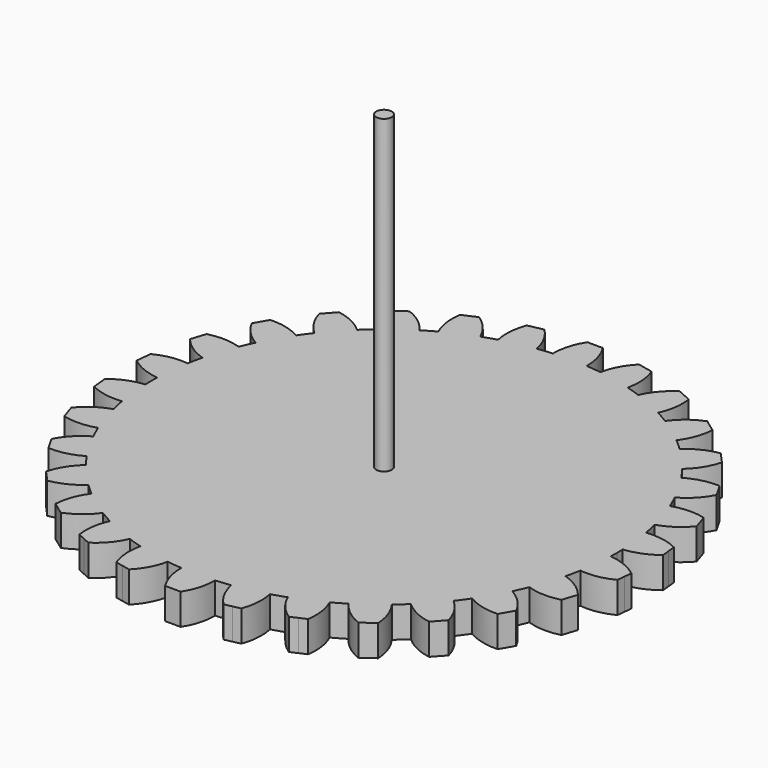
from build123d import *

# Parameters (mm, degrees)
F1_DEPTH      = 20
F2_R          = 5
F3_DEPTH      = 200
F3_DEPTH_BACK = 50


with BuildPart() as f1:
    # F0 (on Top) → F1 (new body)
    with BuildSketch(Plane.XY):
        with BuildLine():
            ThreePointArc((149.922926, -4.807941), (149.98073, -2.404279), (150, 0))
            ThreePointArc((150, 0), (149.98073, 2.404279), (149.922926, 4.807941))
            ThreePointArc((149.922926, 4.807941), (149.178284, 15.679269), (147.646377, 26.467853))
            ThreePointArc((147.646377, 26.467853), (146.72214, 31.186754), (145.647123, 35.873605))
            ThreePointArc((145.647123, 35.873605), (142.658477, 46.352549), (138.916974, 56.586875))
            ThreePointArc((138.916974, 56.586875), (137.031819, 61.010496), (135.005842, 65.37142))
            ThreePointArc((135.005842, 65.37142), (129.903811, 75), (124.116232, 84.232779))
            ThreePointArc((124.116232, 84.232779), (121.352549, 88.167788), (118.464158, 92.012191))
            ThreePointArc((118.464158, 92.012191), (111.471724, 100.369591), (103.891015, 108.197306))
            ThreePointArc((103.891015, 108.197306), (100.369591, 111.471724), (96.745022, 114.631587))
            ThreePointArc((96.745022, 114.631587), (88.167788, 121.352549), (79.125262, 127.433092))
            ThreePointArc((79.125262, 127.433092), (75, 129.903811), (70.797664, 132.241033))
            ThreePointArc((70.797664, 132.241033), (61.010496, 137.031819), (50.901356, 141.09944))
            ThreePointArc((50.901356, 141.09944), (46.352549, 142.658477), (41.756108, 144.070911))
            ThreePointArc((41.756108, 144.070911), (31.186754, 146.72214), (20.452816, 148.599066))
            ThreePointArc((20.452816, 148.599066), (15.679269, 149.178284), (10.88961, 149.604199))
            ThreePointArc((10.88961, 149.604199), (5.4484, 149.901017), (0, 150))
            ThreePointArc((0, 150), (-5.4484, 149.901017), (-10.88961, 149.604199))
            ThreePointArc((-10.88961, 149.604199), (-15.679269, 149.178284), (-20.452816, 148.599066))
            ThreePointArc((-20.452816, 148.599066), (-31.186754, 146.72214), (-41.756108, 144.070911))
            ThreePointArc((-41.756108, 144.070911), (-46.352549, 142.658477), (-50.901356, 141.09944))
            ThreePointArc((-50.901356, 141.09944), (-61.010496, 137.031819), (-70.797664, 132.241033))
            ThreePointArc((-70.797664, 132.241033), (-75, 129.903811), (-79.125262, 127.433092))
            ThreePointArc((-79.125262, 127.433092), (-88.167788, 121.352549), (-96.745022, 114.631587))
            ThreePointArc((-96.745022, 114.631587), (-100.369591, 111.471724), (-103.891015, 108.197306))
            ThreePointArc((-103.891015, 108.197306), (-111.471724, 100.369591), (-118.464158, 92.012191))
            ThreePointArc((-118.464158, 92.012191), (-121.352549, 88.167788), (-124.116232, 84.232779))
            ThreePointArc((-124.116232, 84.232779), (-129.903811, 75), (-135.005842, 65.37142))
            ThreePointArc((-135.005842, 65.37142), (-137.031819, 61.010496), (-138.916974, 56.586875))
            ThreePointArc((-138.916974, 56.586875), (-142.658477, 46.352549), (-145.647123, 35.873605))
            ThreePointArc((-145.647123, 35.873605), (-146.72214, 31.186754), (-147.646377, 26.467853))
            ThreePointArc((-147.646377, 26.467853), (-149.178284, 15.679269), (-149.922926, 4.807941))
            ThreePointArc((-149.922926, 4.807941), (-150, 0), (-149.922926, -4.807941))
            ThreePointArc((-149.922926, -4.807941), (-149.178284, -15.679269), (-147.646377, -26.467853))
            ThreePointArc((-147.646377, -26.467853), (-146.72214, -31.186754), (-145.647123, -35.873605))
            ThreePointArc((-145.647123, -35.873605), (-142.658477, -46.352549), (-138.916974, -56.586875))
            ThreePointArc((-138.916974, -56.586875), (-137.031819, -61.010496), (-135.005842, -65.37142))
            ThreePointArc((-135.005842, -65.37142), (-129.903811, -75), (-124.116232, -84.232779))
            ThreePointArc((-124.116232, -84.232779), (-121.352549, -88.167788), (-118.464158, -92.012191))
            ThreePointArc((-118.464158, -92.012191), (-111.471724, -100.369591), (-103.891015, -108.197306))
            ThreePointArc((-103.891015, -108.197306), (-100.369591, -111.471724), (-96.745022, -114.631587))
            ThreePointArc((-96.745022, -114.631587), (-88.167788, -121.352549), (-79.125262, -127.433092))
            ThreePointArc((-79.125262, -127.433092), (-75, -129.903811), (-70.797664, -132.241033))
            ThreePointArc((-70.797664, -132.241033), (-61.010496, -137.031819), (-50.901356, -141.09944))
            ThreePointArc((-50.901356, -141.09944), (-46.352549, -142.658477), (-41.756108, -144.070911))
            ThreePointArc((-41.756108, -144.070911), (-31.186754, -146.72214), (-20.452816, -148.599066))
            ThreePointArc((-20.452816, -148.599066), (-15.679269, -149.178284), (-10.88961, -149.604199))
            ThreePointArc((-10.88961, -149.604199), (0, -150), (10.88961, -149.604199))
            ThreePointArc((10.88961, -149.604199), (15.679269, -149.178284), (20.452816, -148.599066))
            ThreePointArc((20.452816, -148.599066), (31.186754, -146.72214), (41.756108, -144.070911))
            ThreePointArc((41.756108, -144.070911), (46.352549, -142.658477), (50.901356, -141.09944))
            ThreePointArc((50.901356, -141.09944), (61.010496, -137.031819), (70.797664, -132.241033))
            ThreePointArc((70.797664, -132.241033), (75, -129.903811), (79.125262, -127.433092))
            ThreePointArc((79.125262, -127.433092), (88.167788, -121.352549), (96.745022, -114.631587))
            ThreePointArc((96.745022, -114.631587), (100.369591, -111.471724), (103.891015, -108.197306))
            ThreePointArc((103.891015, -108.197306), (111.471724, -100.369591), (118.464158, -92.012191))
            ThreePointArc((118.464158, -92.012191), (121.352549, -88.167788), (124.116232, -84.232779))
            ThreePointArc((124.116232, -84.232779), (129.903811, -75), (135.005842, -65.37142))
            ThreePointArc((135.005842, -65.37142), (137.031819, -61.010496), (138.916974, -56.586875))
            ThreePointArc((138.916974, -56.586875), (142.658477, -46.352549), (145.647123, -35.873605))
            ThreePointArc((145.647123, -35.873605), (146.72214, -31.186754), (147.646377, -26.467853))
            ThreePointArc((147.646377, -26.467853), (149.178284, -15.679269), (149.922926, -4.807941))
        make_face()
        with BuildLine():
            ThreePointArc((147.646377, 26.467853), (149.178284, 15.679269), (149.922926, 4.807941))
            ThreePointArc((149.922926, 4.807941), (160.344232, 7.357266), (169.591365, 12.797229))
            Line((169.591365, 12.797229), (169.068722, 17.769839))
            Line((169.068722, 17.769839), (168.54608, 22.742448))
            ThreePointArc((168.54608, 22.742448), (158.369987, 26.140949), (147.646377, 26.467853))
        make_face()
        with BuildLine():
            ThreePointArc((169.591365, -12.797229), (160.344232, -7.357266), (149.922926, -4.807941))
            ThreePointArc((149.922926, -4.807941), (149.178284, -15.679269), (147.646377, -26.467853))
            ThreePointArc((147.646377, -26.467853), (158.369987, -26.140949), (168.54608, -22.742448))
            Line((168.54608, -22.742448), (169.068722, -17.769839))
            Line((169.068722, -17.769839), (169.591365, -12.797229))
        make_face()
        with BuildLine():
            ThreePointArc((138.916974, 56.586875), (142.658477, 46.352549), (145.647123, 35.873605))
            ThreePointArc((145.647123, 35.873605), (155.310664, 40.533932), (163.224693, 47.777606))
            Line((163.224693, 47.777606), (161.679608, 52.532889))
            Line((161.679608, 52.532889), (160.134523, 57.288172))
            ThreePointArc((160.134523, 57.288172), (149.474214, 58.496678), (138.916974, 56.586875))
        make_face()
        with BuildLine():
            ThreePointArc((163.224693, -47.777606), (155.310664, -40.533932), (145.647123, -35.873605))
            ThreePointArc((145.647123, -35.873605), (142.658477, -46.352549), (138.916974, -56.586875))
            ThreePointArc((138.916974, -56.586875), (149.474214, -58.496678), (160.134523, -57.288172))
            Line((160.134523, -57.288172), (161.679608, -52.532889))
            Line((161.679608, -52.532889), (163.224693, -47.777606))
        make_face()
        with BuildLine():
            ThreePointArc((124.116232, 84.232779), (129.903811, 75), (135.005842, 65.37142))
            ThreePointArc((135.005842, 65.37142), (143.489275, 71.939071), (149.724319, 80.669873))
            Line((149.724319, 80.669873), (147.224319, 85))
            Line((147.224319, 85), (144.724319, 89.330127))
            ThreePointArc((144.724319, 89.330127), (134.045701, 88.295822), (124.116232, 84.232779))
        make_face()
        with BuildLine():
            ThreePointArc((149.724319, -80.669873), (143.489275, -71.939071), (135.005842, -65.37142))
            ThreePointArc((135.005842, -65.37142), (129.903811, -75), (124.116232, -84.232779))
            ThreePointArc((124.116232, -84.232779), (134.045701, -88.295822), (144.724319, -89.330127))
            Line((144.724319, -89.330127), (147.224319, -85))
            Line((147.224319, -85), (149.724319, -80.669873))
        make_face()
        with BuildLine():
            ThreePointArc((103.891015, 108.197306), (111.471724, 100.369591), (118.464158, 92.012191))
            ThreePointArc((118.464158, 92.012191), (125.396716, 100.200128), (129.680273, 110.036479))
            Line((129.680273, 110.036479), (126.33462, 113.752203))
            Line((126.33462, 113.752203), (122.988967, 117.467927))
            ThreePointArc((122.988967, 117.467927), (112.758747, 114.236015), (103.891015, 108.197306))
        make_face()
        with BuildLine():
            ThreePointArc((129.680273, -110.036479), (125.396716, -100.200128), (118.464158, -92.012191))
            ThreePointArc((118.464158, -92.012191), (111.471724, -100.369591), (103.891015, -108.197306))
            ThreePointArc((103.891015, -108.197306), (112.758747, -114.236015), (122.988967, -117.467927))
            Line((122.988967, -117.467927), (126.33462, -113.752203))
            Line((126.33462, -113.752203), (129.680273, -110.036479))
        make_face()
        with BuildLine():
            ThreePointArc((79.125262, 127.433092), (88.167788, 121.352549), (96.745022, 114.631587))
            ThreePointArc((96.745022, 114.631587), (101.823719, 124.081958), (103.968578, 134.593963))
            Line((103.968578, 134.593963), (99.923493, 137.532889))
            Line((99.923493, 137.532889), (95.878408, 140.471815))
            ThreePointArc((95.878408, 140.471815), (86.543695, 135.183545), (79.125262, 127.433092))
        make_face()
        with BuildLine():
            ThreePointArc((103.968578, -134.593963), (101.823719, -124.081958), (96.745022, -114.631587))
            ThreePointArc((96.745022, -114.631587), (88.167788, -121.352549), (79.125262, -127.433092))
            ThreePointArc((79.125262, -127.433092), (86.543695, -135.183545), (95.878408, -140.471815))
            Line((95.878408, -140.471815), (99.923493, -137.532889))
            Line((99.923493, -137.532889), (103.968578, -134.593963))
        make_face()
        with BuildLine():
            ThreePointArc((50.901356, 141.09944), (61.010496, 137.031819), (70.797664, 132.241033))
            ThreePointArc((70.797664, 132.241033), (73.800537, 142.540811), (73.712957, 153.269045))
            Line((73.712957, 153.269045), (69.145229, 155.302728))
            Line((69.145229, 155.302728), (64.577502, 157.336411))
            ThreePointArc((64.577502, 157.336411), (56.546268, 150.222906), (50.901356, 141.09944))
        make_face()
        with BuildLine():
            ThreePointArc((73.712957, -153.269045), (73.800537, -142.540811), (70.797664, -132.241033))
            ThreePointArc((70.797664, -132.241033), (61.010496, -137.031819), (50.901356, -141.09944))
            ThreePointArc((50.901356, -141.09944), (56.546268, -150.222906), (64.577502, -157.336411))
            Line((64.577502, -157.336411), (69.145229, -155.302728))
            Line((69.145229, -155.302728), (73.712957, -153.269045))
        make_face()
        with BuildLine():
            ThreePointArc((20.452816, 148.599066), (31.186754, 146.72214), (41.756108, 144.070911))
            ThreePointArc((41.756108, 144.070911), (42.551917, 154.769947), (40.235725, 165.245534))
            Line((40.235725, 165.245534), (35.344987, 166.285092))
            Line((35.344987, 166.285092), (30.454249, 167.324651))
            ThreePointArc((30.454249, 167.324651), (24.077498, 158.696806), (20.452816, 148.599066))
        make_face()
        with BuildLine():
            ThreePointArc((40.235725, -165.245534), (42.551917, -154.769947), (41.756108, -144.070911))
            ThreePointArc((41.756108, -144.070911), (31.186754, -146.72214), (20.452816, -148.599066))
            ThreePointArc((20.452816, -148.599066), (24.077498, -158.696806), (30.454249, -167.324651))
            Line((30.454249, -167.324651), (35.344987, -166.285092))
            Line((35.344987, -166.285092), (40.235725, -165.245534))
        make_face()
        with BuildLine():
            ThreePointArc((0, 150), (5.4484, 149.901017), (10.88961, 149.604199))
            ThreePointArc((10.88961, 149.604199), (9.443574, 160.234893), (5, 170))
            Line((5, 170), (0, 170))
            Line((0, 170), (0, 150))
        make_face()
        with BuildLine():
            ThreePointArc((5, -170), (9.443574, -160.234893), (10.88961, -149.604199))
            ThreePointArc((10.88961, -149.604199), (0, -150), (-10.88961, -149.604199))
            ThreePointArc((-10.88961, -149.604199), (-9.443574, -160.234893), (-5, -170))
            Line((-5, -170), (0, -170))
            Line((0, -170), (5, -170))
        make_face()
        with BuildLine():
            ThreePointArc((-10.88961, 149.604199), (-5.4484, 149.901017), (0, 150))
            Line((0, 150), (0, 170))
            Line((0, 170), (-5, 170))
            ThreePointArc((-5, 170), (-9.443574, 160.234893), (-10.88961, 149.604199))
        make_face()
        with BuildLine():
            ThreePointArc((-30.454249, -167.324651), (-24.077498, -158.696806), (-20.452816, -148.599066))
            ThreePointArc((-20.452816, -148.599066), (-31.186754, -146.72214), (-41.756108, -144.070911))
            ThreePointArc((-41.756108, -144.070911), (-42.551917, -154.769947), (-40.235725, -165.245534))
            Line((-40.235725, -165.245534), (-35.344987, -166.285092))
            Line((-35.344987, -166.285092), (-30.454249, -167.324651))
        make_face()
        with BuildLine():
            ThreePointArc((-41.756108, 144.070911), (-31.186754, 146.72214), (-20.452816, 148.599066))
            ThreePointArc((-20.452816, 148.599066), (-24.077498, 158.696806), (-30.454249, 167.324651))
            Line((-30.454249, 167.324651), (-35.344987, 166.285092))
            Line((-35.344987, 166.285092), (-40.235725, 165.245534))
            ThreePointArc((-40.235725, 165.245534), (-42.551917, 154.769947), (-41.756108, 144.070911))
        make_face()
        with BuildLine():
            ThreePointArc((-64.577502, -157.336411), (-56.546268, -150.222906), (-50.901356, -141.09944))
            ThreePointArc((-50.901356, -141.09944), (-61.010496, -137.031819), (-70.797664, -132.241033))
            ThreePointArc((-70.797664, -132.241033), (-73.800537, -142.540811), (-73.712957, -153.269045))
            Line((-73.712957, -153.269045), (-69.145229, -155.302728))
            Line((-69.145229, -155.302728), (-64.577502, -157.336411))
        make_face()
        with BuildLine():
            ThreePointArc((-70.797664, 132.241033), (-61.010496, 137.031819), (-50.901356, 141.09944))
            ThreePointArc((-50.901356, 141.09944), (-56.546268, 150.222906), (-64.577502, 157.336411))
            Line((-64.577502, 157.336411), (-69.145229, 155.302728))
            Line((-69.145229, 155.302728), (-73.712957, 153.269045))
            ThreePointArc((-73.712957, 153.269045), (-73.800537, 142.540811), (-70.797664, 132.241033))
        make_face()
        with BuildLine():
            ThreePointArc((-95.878408, -140.471815), (-86.543695, -135.183545), (-79.125262, -127.433092))
            ThreePointArc((-79.125262, -127.433092), (-88.167788, -121.352549), (-96.745022, -114.631587))
            ThreePointArc((-96.745022, -114.631587), (-101.823719, -124.081958), (-103.968578, -134.593963))
            Line((-103.968578, -134.593963), (-99.923493, -137.532889))
            Line((-99.923493, -137.532889), (-95.878408, -140.471815))
        make_face()
        with BuildLine():
            ThreePointArc((-96.745022, 114.631587), (-88.167788, 121.352549), (-79.125262, 127.433092))
            ThreePointArc((-79.125262, 127.433092), (-86.543695, 135.183545), (-95.878408, 140.471815))
            Line((-95.878408, 140.471815), (-99.923493, 137.532889))
            Line((-99.923493, 137.532889), (-103.968578, 134.593963))
            ThreePointArc((-103.968578, 134.593963), (-101.823719, 124.081958), (-96.745022, 114.631587))
        make_face()
        with BuildLine():
            ThreePointArc((-122.988967, -117.467927), (-112.758747, -114.236015), (-103.891015, -108.197306))
            ThreePointArc((-103.891015, -108.197306), (-111.471724, -100.369591), (-118.464158, -92.012191))
            ThreePointArc((-118.464158, -92.012191), (-125.396716, -100.200128), (-129.680273, -110.036479))
            Line((-129.680273, -110.036479), (-126.33462, -113.752203))
            Line((-126.33462, -113.752203), (-122.988967, -117.467927))
        make_face()
        with BuildLine():
            ThreePointArc((-118.464158, 92.012191), (-111.471724, 100.369591), (-103.891015, 108.197306))
            ThreePointArc((-103.891015, 108.197306), (-112.758747, 114.236015), (-122.988967, 117.467927))
            Line((-122.988967, 117.467927), (-126.33462, 113.752203))
            Line((-126.33462, 113.752203), (-129.680273, 110.036479))
            ThreePointArc((-129.680273, 110.036479), (-125.396716, 100.200128), (-118.464158, 92.012191))
        make_face()
        with BuildLine():
            ThreePointArc((-144.724319, -89.330127), (-134.045701, -88.295822), (-124.116232, -84.232779))
            ThreePointArc((-124.116232, -84.232779), (-129.903811, -75), (-135.005842, -65.37142))
            ThreePointArc((-135.005842, -65.37142), (-143.489275, -71.939071), (-149.724319, -80.669873))
            Line((-149.724319, -80.669873), (-147.224319, -85))
            Line((-147.224319, -85), (-144.724319, -89.330127))
        make_face()
        with BuildLine():
            ThreePointArc((-135.005842, 65.37142), (-129.903811, 75), (-124.116232, 84.232779))
            ThreePointArc((-124.116232, 84.232779), (-134.045701, 88.295822), (-144.724319, 89.330127))
            Line((-144.724319, 89.330127), (-147.224319, 85))
            Line((-147.224319, 85), (-149.724319, 80.669873))
            ThreePointArc((-149.724319, 80.669873), (-143.489275, 71.939071), (-135.005842, 65.37142))
        make_face()
        with BuildLine():
            ThreePointArc((-160.134523, -57.288172), (-149.474214, -58.496678), (-138.916974, -56.586875))
            ThreePointArc((-138.916974, -56.586875), (-142.658477, -46.352549), (-145.647123, -35.873605))
            ThreePointArc((-145.647123, -35.873605), (-155.310664, -40.533932), (-163.224693, -47.777606))
            Line((-163.224693, -47.777606), (-161.679608, -52.532889))
            Line((-161.679608, -52.532889), (-160.134523, -57.288172))
        make_face()
        with BuildLine():
            ThreePointArc((-145.647123, 35.873605), (-142.658477, 46.352549), (-138.916974, 56.586875))
            ThreePointArc((-138.916974, 56.586875), (-149.474214, 58.496678), (-160.134523, 57.288172))
            Line((-160.134523, 57.288172), (-161.679608, 52.532889))
            Line((-161.679608, 52.532889), (-163.224693, 47.777606))
            ThreePointArc((-163.224693, 47.777606), (-155.310664, 40.533932), (-145.647123, 35.873605))
        make_face()
        with BuildLine():
            ThreePointArc((-168.54608, -22.742448), (-158.369987, -26.140949), (-147.646377, -26.467853))
            ThreePointArc((-147.646377, -26.467853), (-149.178284, -15.679269), (-149.922926, -4.807941))
            ThreePointArc((-149.922926, -4.807941), (-160.344232, -7.357266), (-169.591365, -12.797229))
            Line((-169.591365, -12.797229), (-169.068722, -17.769839))
            Line((-169.068722, -17.769839), (-168.54608, -22.742448))
        make_face()
        with BuildLine():
            ThreePointArc((-149.922926, 4.807941), (-149.178284, 15.679269), (-147.646377, 26.467853))
            ThreePointArc((-147.646377, 26.467853), (-158.369987, 26.140949), (-168.54608, 22.742448))
            Line((-168.54608, 22.742448), (-169.068722, 17.769839))
            Line((-169.068722, 17.769839), (-169.591365, 12.797229))
            ThreePointArc((-169.591365, 12.797229), (-160.344232, 7.357266), (-149.922926, 4.807941))
        make_face()
    extrude(amount=F1_DEPTH)

    # F2 (on face) → F3 (join, two sides)
    with BuildSketch(Plane.XY.offset(20)) as f3_sk:
        Circle(F2_R)
    extrude(amount=F3_DEPTH)
    extrude(f3_sk.sketch, amount=-F3_DEPTH_BACK)


solid = f1.part
